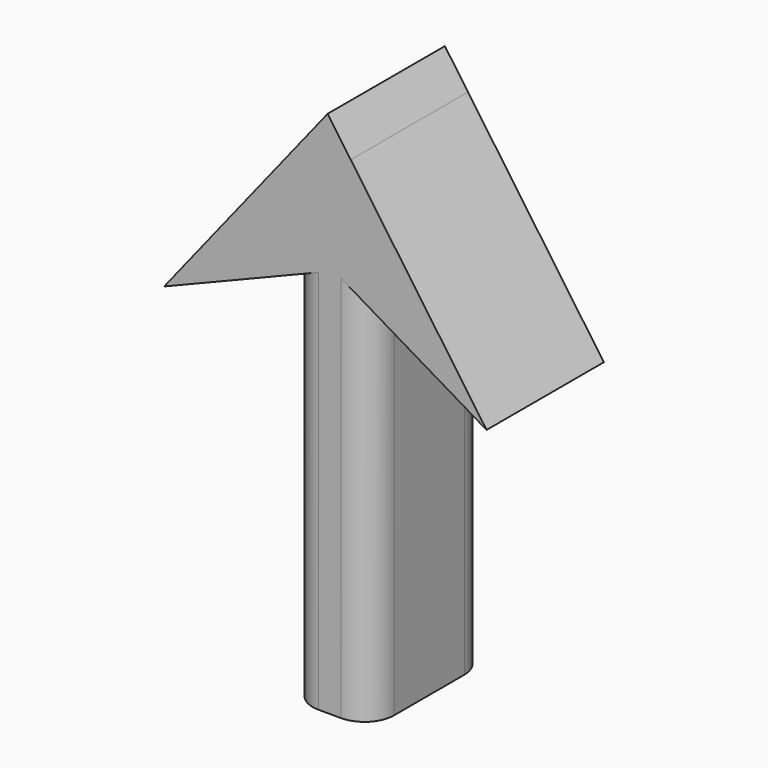
from build123d import *

# Parameters (mm, degrees)
F1_DEPTH = 25.4
F2_R     = 5.08


with BuildPart() as f1:
    # F0 (on Front) → F1 (new body)
    with BuildSketch(Plane.XZ):
        Polygon((-32.336153, 17.584616), (-10.648462, 26.376924), (-10.648462, -38.295384), (-5.959231, -38.295384), (-5.959231, 50.692204), align=None)
        Polygon((-5.959231, 50.692204), (-5.959231, -38.295384), (0, -38.295384), (0, 47.434815), (-4.005384, 53.144619), align=None)
        Polygon((0, 47.434815), (0, -38.295384), (3.419231, -38.295384), (3.419231, 25.79077), (23.543846, 13.872309), align=None)
    extrude(amount=F1_DEPTH)

    # F2
    f2_edges = [f1.edges().sort_by_distance(p)[0] for p in [
        (3.419231, -25.4, -6.252307),
        (-10.648462, -25.4, -5.95923),
        (3.419231, 0, -6.252307),
        (-10.648462, 0, -5.95923),
    ]]
    fillet(f2_edges, radius=F2_R)


solid = f1.part
